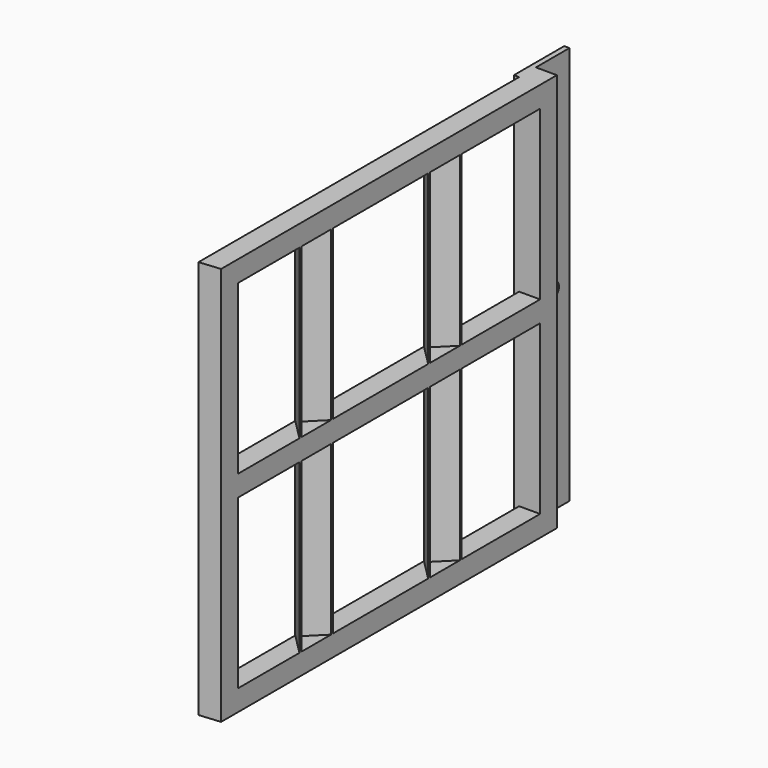
from build123d import *

# Parameters (mm, degrees)
F0_W     = 25.4
F0_H     = 25.4
F0_W_2   = 21.1836
F0_H_2   = 21.1836
F1_DEPTH = 508
F2_W     = 25.4
F2_H     = 25.4
F3_DEPTH = 482.6
F4_W     = 76.2
F4_H     = 482.6
F5_DEPTH = 6.35
F7_DEPTH = 482.6
F9_DEPTH = 482.6


with BuildPart() as f1:
    # F0 (on Front) → F1 (new body)
    with BuildSketch(Plane.XZ):
        with Locations((0, 457.2)):
            Rectangle(F0_W, F0_H)
        with Locations((0, 457.2)):
            Rectangle(F0_W_2, F0_H_2, mode=Mode.SUBTRACT)
        with Locations((0, 228.6)):
            Rectangle(F0_W, F0_H)
        with Locations((0, 228.6)):
            Rectangle(F0_W_2, F0_H_2, mode=Mode.SUBTRACT)
        Rectangle(F0_W, F0_H)
        Rectangle(F0_W_2, F0_H_2, mode=Mode.SUBTRACT)
    extrude(amount=F1_DEPTH)

    # F2 (on face) → F3 (join)
    with BuildSketch(Plane.XY.offset(469.9)):
        with Locations((0, -12.7)):
            Rectangle(F2_W, F2_H)
        with Locations((0, -495.3)):
            Rectangle(F2_W, F2_H)
    extrude(amount=-F3_DEPTH)

    # F4 (on face) → F5 (join)
    with BuildSketch(Plane(origin=(-12.7, 0, 0), x_dir=(0, -1, 0), z_dir=(-1, 0, 0))):
        with Locations((-12.7, 228.6)):
            Rectangle(F4_W, F4_H)
        with BuildLine():
            ThreePointArc((-31.75, 215.150484), (-25.4, 231.775), (-19.05, 215.150484))
            Line((-19.05, 215.150484), (-19.05, 146.05))
            ThreePointArc((-19.05, 146.05), (-25.4, 139.7), (-31.75, 146.05))
            Line((-31.75, 146.05), (-31.75, 215.150484))
        make_face(mode=Mode.SUBTRACT)
    extrude(amount=F5_DEPTH)

    # F6 (on face) → F7 (join)
    with BuildSketch(Plane.XY.offset(469.9)):
        Polygon((-12.7, -169.333333), (12.7, -194.733333), (12.7, -191.751888), (-9.718555, -169.333333), (12.7, -146.914778), (12.7, -143.933333), align=None)
        Polygon((-12.7, -364.066667), (12.7, -389.466667), (12.7, -386.485222), (-9.718555, -364.066667), (12.7, -341.648112), (12.7, -338.666667), align=None)
    extrude(amount=-F7_DEPTH)

    # F8 (on face) → F9 (join)
    with BuildSketch(Plane.XY.offset(469.9)):
        Polygon((-12.7, -510.38125), (12.7, -508), (-12.7, -508), align=None)
    extrude(amount=-F9_DEPTH)


solid = f1.part
